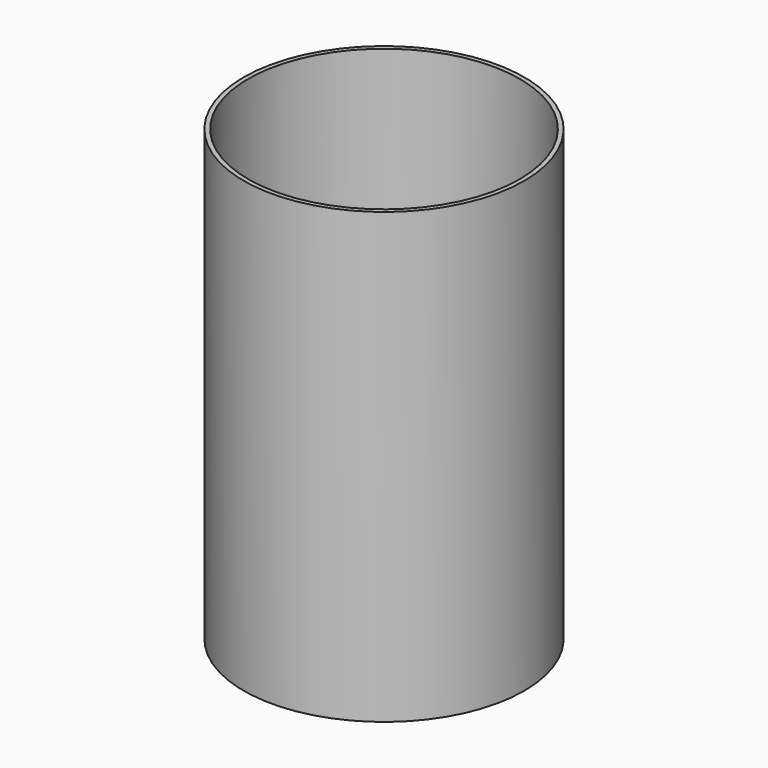
from build123d import *

# Parameters (mm, degrees)
F0_R     = 25
F1_DEPTH = 80
F3_T     = -0.8
F2_R     = 13.75
F4_DEPTH = 25


with BuildPart() as f1:
    # F0 (on Top) → F1 (new body)
    with BuildSketch(Plane.XY):
        Circle(F0_R)
    extrude(amount=F1_DEPTH)

    # F3
    f3_openings = [f1.faces().sort_by_distance(p)[0] for p in [
        (0, 0, 80),
    ]]
    offset(amount=F3_T, openings=f3_openings)

    # F2 (on face) → F4 (cut)
    with BuildSketch(Plane(origin=(0, 0, 0), x_dir=(1, 0, 0), z_dir=(0, 0, -1))):
        Circle(F2_R)
    extrude(amount=-F4_DEPTH, mode=Mode.SUBTRACT)


solid = f1.part
